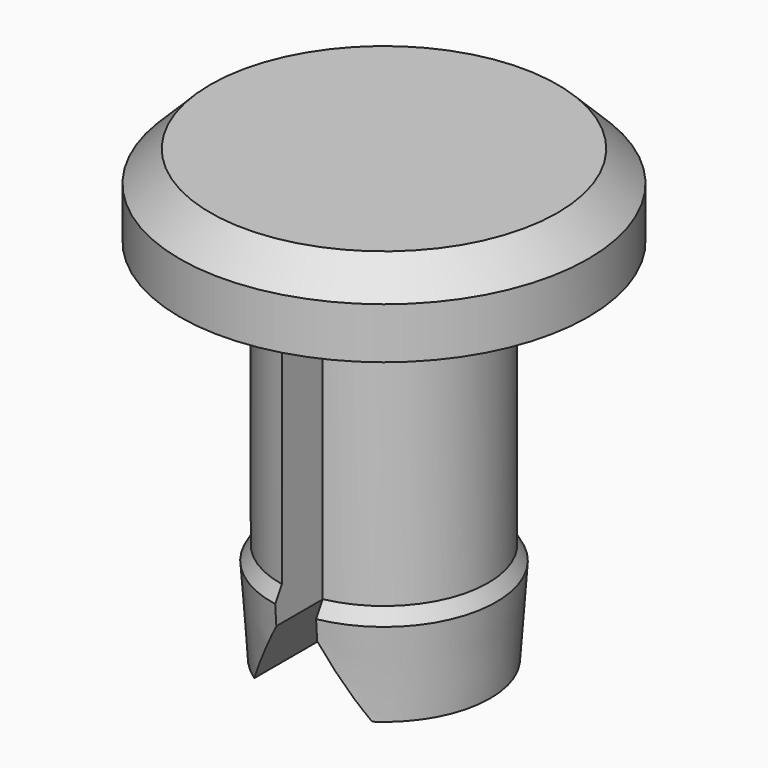
from build123d import *

# Parameters (mm, degrees)
SKETCH002_W  = 2
SKETCH002_H  = 25
PAD001_DEPTH = 15
PAD_DEPTH    = 7.5


with BuildPart() as pad001:
    # Sketch002 → Pad001 (new body, symmetric)
    with BuildSketch(Plane.XZ):
        with Locations((0, -13.5)):
            Rectangle(SKETCH002_W, SKETCH002_H)
    extrude(amount=PAD001_DEPTH, both=True)


with BuildPart() as pad:
    # Sketch001 → Pad (new body, symmetric)
    with BuildSketch(Plane.XZ):
        Polygon((8, -26.856406), (0, -13), (-8, -26.856406), align=None)
    extrude(amount=PAD_DEPTH, both=True)


with BuildPart() as cut002:
    # Sketch → Revolution (revolve)
    with BuildSketch(Plane.XZ):
        Polygon((0, 4), (8.5, 4), (10, 2.5), (10, 0), (5.1, 0), (5.1, -13.058023), (5.5, -13.750843), (5.20287, -18), (0, -18), align=None)
    revolve(axis=Axis((0, 0, 0), (0, 0, 1)))

    # Cut: cut Pad
    add(pad.part, mode=Mode.SUBTRACT)

    # Cut002: cut Pad001
    add(pad001.part, mode=Mode.SUBTRACT)


solid = cut002.part
